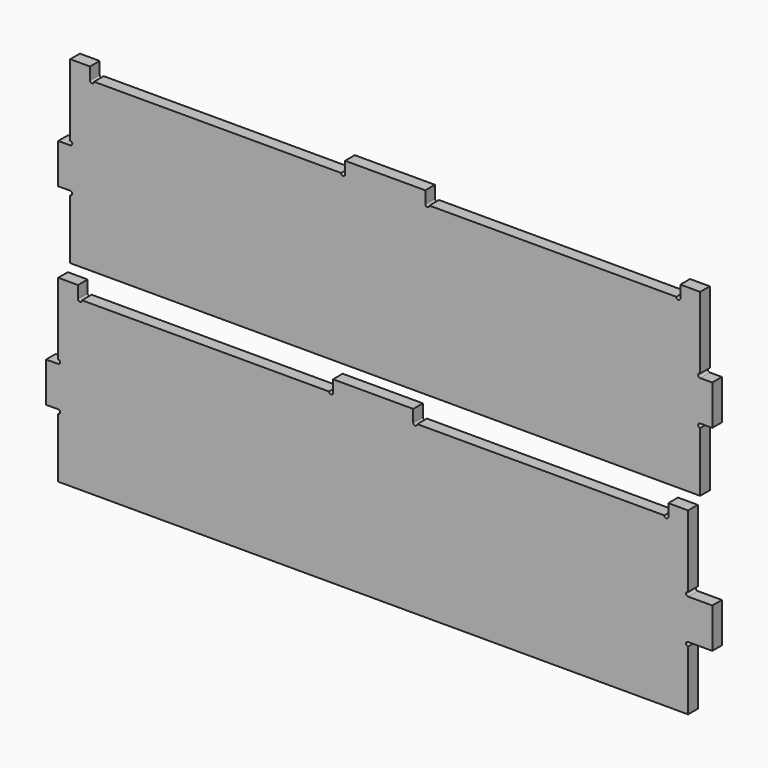
from build123d import *

# Parameters (mm, degrees)
F1_DEPTH = 18
F2_DEPTH = 18


with BuildPart() as f1:
    # F0 (on Front) → F1 (new body)
    with BuildSketch(Plane.XZ):
        with BuildLine():
            Line((-575.000102, 759.441344), (-575.000102, 699.941284))
            Line((-575.000102, 699.941284), (-556.999964, 700.001713))
            ThreePointArc((-556.999964, 700.001713), (-553.989964, 696.991713), (-556.999964, 693.981713))
            Line((-556.999964, 693.981713), (-556.999964, 605.001608))
            Line((-556.999964, 605.001608), (381.500973, 605.001608))
            Line((381.500973, 605.001608), (381.500973, 693.981713))
            ThreePointArc((381.500973, 693.981713), (378.490973, 696.991713), (381.500973, 700.001713))
            Line((381.500973, 700.001713), (417.501009, 700.001713))
            Line((417.501009, 700.001713), (417.501009, 759.501773))
            Line((417.501009, 759.501773), (381.500973, 759.501773))
            ThreePointArc((381.500973, 759.501773), (378.490973, 762.511773), (381.500973, 765.521773))
            Line((381.500973, 765.521773), (381.500974, 872.501876))
            Line((381.500974, 872.501876), (352.000944, 872.501876))
            Line((352.000944, 872.501876), (352.000943, 854.501858))
            ThreePointArc((352.000943, 854.501858), (348.990943, 851.491858), (345.980943, 854.501858))
            Line((345.980943, 854.501858), (-21.979436, 854.501858))
            ThreePointArc((-21.979436, 854.501858), (-24.989436, 851.491858), (-27.999436, 854.501858))
            Line((-27.999436, 854.501858), (-27.999436, 872.501876))
            Line((-27.999436, 872.501876), (-147.499556, 872.501876))
            Line((-147.499556, 872.501876), (-147.499556, 854.501858))
            ThreePointArc((-147.499556, 854.501858), (-150.509556, 851.491858), (-153.519556, 854.501858))
            Line((-153.519556, 854.501858), (-521.479934, 854.501858))
            ThreePointArc((-521.479934, 854.501858), (-524.489934, 851.491858), (-527.499934, 854.501858))
            Line((-527.499934, 854.501858), (-527.499935, 872.501876))
            Line((-527.499935, 872.501876), (-556.999965, 872.501876))
            Line((-556.999965, 872.501876), (-556.999965, 765.521773))
            ThreePointArc((-556.999965, 765.521773), (-553.989965, 762.511774), (-556.999964, 759.501773))
            Line((-556.999964, 759.501773), (-575.000102, 759.441344))
        make_face()
    extrude(amount=F1_DEPTH)


with BuildPart() as f2:
    # F0 (on Front) → F2 (new body)
    with BuildSketch(Plane.XZ):
        with BuildLine():
            Line((-557.000102, 1051.941612), (-557.000102, 992.441552))
            Line((-557.000102, 992.441552), (-538.999964, 992.501981))
            ThreePointArc((-538.999964, 992.501981), (-535.989964, 989.491981), (-538.999964, 986.481981))
            Line((-538.999964, 986.481981), (-538.999964, 897.501876))
            Line((-538.999964, 897.501876), (399.500973, 897.501876))
            Line((399.500973, 897.501876), (399.500973, 986.481981))
            ThreePointArc((399.500973, 986.481981), (396.490973, 989.491981), (399.500973, 992.501981))
            Line((399.500973, 992.501981), (417.501009, 992.501981))
            Line((417.501009, 992.501981), (417.501009, 1052.002041))
            Line((417.501009, 1052.002041), (399.500973, 1052.002041))
            ThreePointArc((399.500973, 1052.002041), (396.490973, 1055.012041), (399.500973, 1058.022041))
            Line((399.500973, 1058.022041), (399.500974, 1165.002144))
            Line((399.500974, 1165.002144), (370.000944, 1165.002144))
            Line((370.000944, 1165.002144), (370.000943, 1147.002126))
            ThreePointArc((370.000943, 1147.002126), (366.990943, 1143.992126), (363.980943, 1147.002126))
            Line((363.980943, 1147.002126), (-3.979436, 1147.002126))
            ThreePointArc((-3.979436, 1147.002126), (-6.989436, 1143.992126), (-9.999436, 1147.002126))
            Line((-9.999436, 1147.002126), (-9.999436, 1165.002144))
            Line((-9.999436, 1165.002144), (-129.499556, 1165.002144))
            Line((-129.499556, 1165.002144), (-129.499556, 1147.002126))
            ThreePointArc((-129.499556, 1147.002126), (-132.509556, 1143.992126), (-135.519556, 1147.002126))
            Line((-135.519556, 1147.002126), (-503.479934, 1147.002126))
            ThreePointArc((-503.479934, 1147.002126), (-506.489934, 1143.992126), (-509.499934, 1147.002126))
            Line((-509.499934, 1147.002126), (-509.499935, 1165.002144))
            Line((-509.499935, 1165.002144), (-538.999965, 1165.002144))
            Line((-538.999965, 1165.002144), (-538.999965, 1058.022041))
            ThreePointArc((-538.999965, 1058.022041), (-535.989965, 1055.012041), (-538.999964, 1052.002041))
            Line((-538.999964, 1052.002041), (-557.000102, 1051.941612))
        make_face()
    extrude(amount=F2_DEPTH)


solid = Compound([f1.part, f2.part])
